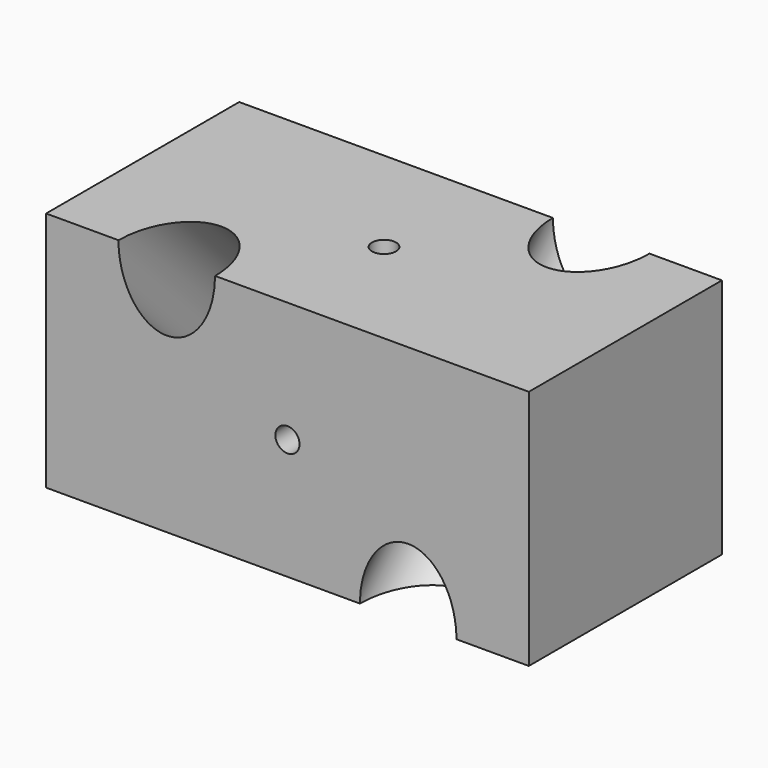
from build123d import *

# Parameters (mm, degrees)
F0_W      = 10
F0_H      = 10
F1_DEPTH  = 10
F3_R      = 2
F4_DEPTH  = 14.143136
F6_R      = 2
F7_DEPTH  = 14.143136
F8_R      = 0.5
F9_DEPTH  = 10.001
F10_R     = 0.5
F11_DEPTH = 10.001


with BuildPart() as f1:
    # F0 (on Right) → F1 (new body, symmetric)
    with BuildSketch(Plane.YZ):
        Rectangle(F0_W, F0_H)
    extrude(amount=F1_DEPTH, both=True)

    # F3 (on face) → F4 (cut, through all)
    with BuildSketch(Plane(origin=(0, -5, 5), x_dir=(1, 0, 0), z_dir=(0, -0.707107, 0.707107))):
        with Locations((-5, 0)):
            Circle(F3_R)
    extrude(amount=-F4_DEPTH, mode=Mode.SUBTRACT)

    # F6 (on face) → F7 (cut, through all)
    with BuildSketch(Plane(origin=(0, 5, 5), x_dir=(1, 0, 0), z_dir=(0, -0.707107, -0.707107))):
        with Locations((5, 0)):
            Circle(F6_R)
    extrude(amount=F7_DEPTH, mode=Mode.SUBTRACT)

    # F8 (on face) → F9 (cut, through all)
    with BuildSketch(Plane(origin=(0, 5, 0), x_dir=(-1, 0, 0), z_dir=(0, 1, 0))):
        Circle(F8_R)
    extrude(amount=-F9_DEPTH, mode=Mode.SUBTRACT)

    # F10 (on face) → F11 (cut, through all)
    with BuildSketch(Plane.XY.offset(5)):
        Circle(F10_R)
    extrude(amount=-F11_DEPTH, mode=Mode.SUBTRACT)


solid = f1.part
